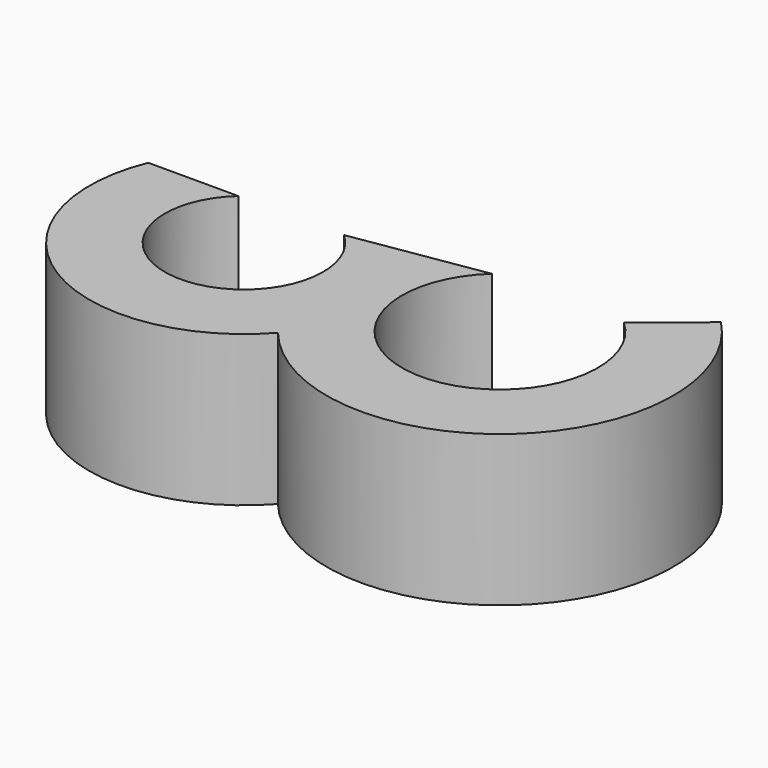
from build123d import *

# Parameters (mm, degrees)
PAD_DEPTH = 4


with BuildPart() as part:
    # Sketch → Pad (new body)
    with BuildSketch(Plane.XY):
        with BuildLine():
            ThreePointArc((-1.4, 2.565248), (0, -1.1), (1.4, 2.565248))
            Line((1.4, 2.565248), (4.883254, 3.122888))
            ThreePointArc((4.883254, 3.122888), (6.633254, -1.4), (8.383254, 3.122888))
            Line((8.383254, 3.122888), (9.946507, 4.39098))
            ThreePointArc((3.073564, -1.713522), (9.687991, -2.23927), (9.946507, 4.39098))
            ThreePointArc((-3.789459, 2.565248), (-2.169123, -2.479211), (3.073564, -1.713522))
            Line((-3.789459, 2.565248), (-1.4, 2.565248))
        make_face()
    extrude(amount=PAD_DEPTH)


solid = part.part
